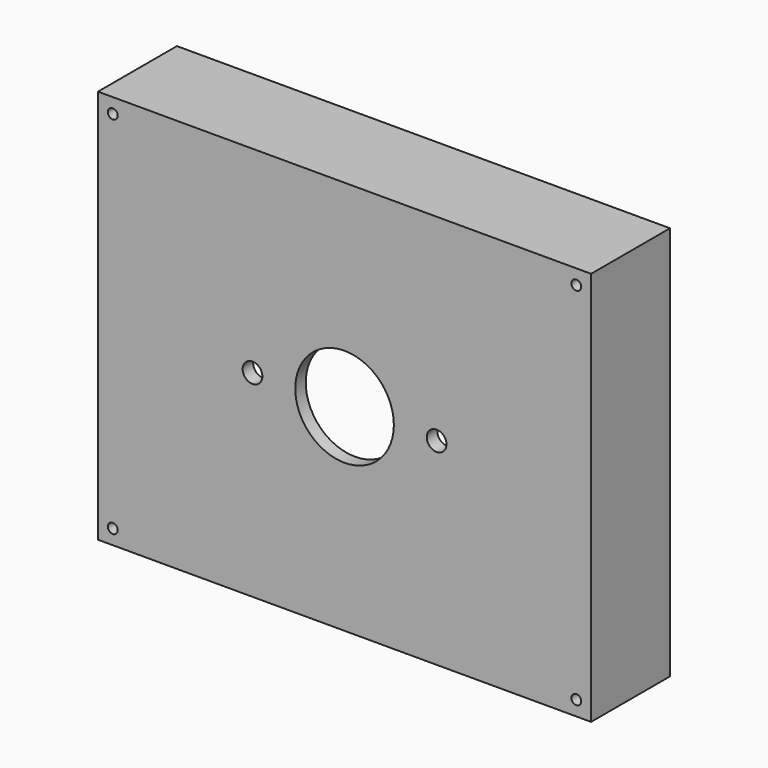
from build123d import *

# Parameters (mm, degrees)
F0_W     = 75
F0_H     = 60
F0_R     = 0.75
F0_R_2   = 1.5
F0_R_3   = 7.5
F1_DEPTH = 7.5
F2_T     = -2
F3_DEPTH = 7.501
F4_R     = 1.5
F5_DEPTH = 3
F6_R     = 0.75
F7_DEPTH = 3


with BuildPart() as f1:
    # F0 (on Front) → F1 (new body, symmetric)
    with BuildSketch(Plane.XZ):
        Rectangle(F0_W, F0_H)
        with Locations((-35.25, -27.75)):
            Circle(F0_R, mode=Mode.SUBTRACT)
        with Locations((35.25, -27.75)):
            Circle(F0_R, mode=Mode.SUBTRACT)
        with Locations((-14, 0)):
            Circle(F0_R_2, mode=Mode.SUBTRACT)
        with Locations((-35.25, 27.75)):
            Circle(F0_R, mode=Mode.SUBTRACT)
        Circle(F0_R_3, mode=Mode.SUBTRACT)
        with Locations((14, 0)):
            Circle(F0_R_2, mode=Mode.SUBTRACT)
        with Locations((35.25, 27.75)):
            Circle(F0_R, mode=Mode.SUBTRACT)
        with Locations((-14, 0)):
            Circle(F0_R_2)
        Circle(F0_R_3)
        with Locations((14, 0)):
            Circle(F0_R_2)
    extrude(amount=F1_DEPTH, both=True)

    # F2
    f2_openings = [f1.faces().sort_by_distance(p)[0] for p in [
        (0, 7.5, 0),
    ]]
    offset(amount=F2_T, openings=f2_openings)

    # F0 (on Front) → F3 (cut, through all)
    with BuildSketch(Plane.XZ):
        with Locations((-14, 0)):
            Circle(F0_R_2)
        Circle(F0_R_3)
        with Locations((14, 0)):
            Circle(F0_R_2)
    extrude(amount=F3_DEPTH, mode=Mode.SUBTRACT)

    # F4 (on face) → F5 (join)
    with BuildSketch(Plane(origin=(0, -5.5, 0), x_dir=(-1, 0, 0), z_dir=(0, 1, 0))):
        with Locations((-28.4348707646, -7.3186149821)):
            Circle(F4_R)
        with Locations((-7.3929731734, -7.3186149821)):
            Circle(F4_R)
        with Locations((-28.4348707646, -23.2888292521)):
            Circle(F4_R)
        with Locations((-7.3929731734, -23.2888292521)):
            Circle(F4_R)
    extrude(amount=F5_DEPTH)

    # F6 (on face) → F7 (cut)
    with BuildSketch(Plane(origin=(0, -2.5, 0), x_dir=(-1, 0, 0), z_dir=(0, 1, 0))):
        with Locations((-28.4348707646, -7.3186149821)):
            Circle(F6_R)
    extrude(amount=-F7_DEPTH, mode=Mode.SUBTRACT)


solid = f1.part
